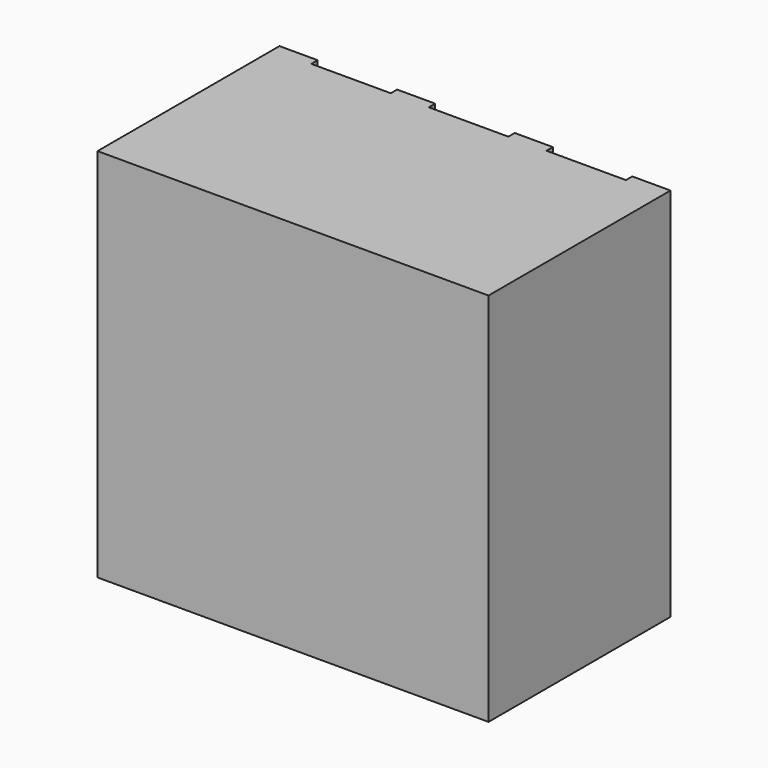
from build123d import *

# Parameters (mm, degrees)
F0_W     = 125
F0_H     = 120
F1_DEPTH = 60
F2_W     = 125
F2_H     = 20.32
F2_H_2   = 38.1
F3_DEPTH = 12.7
F4_W     = 115
F4_H     = 110
F5_DEPTH = 55
F6_W     = 25.4
F6_H     = 12.7
F7_DEPTH = 2.54
F8_W     = 5
F8_H     = 61.58
F9_DEPTH = 12.7


with BuildPart() as f1:
    # F0 (on Front) → F1 (new body)
    with BuildSketch(Plane.XZ):
        Rectangle(F0_W, F0_H)
    extrude(amount=F1_DEPTH)

    # F2 (on face) → F3 (join)
    with BuildSketch(Plane(origin=(0, 0, 0), x_dir=(-1, 0, 0), z_dir=(0, 1, 0))):
        with Locations((0, 49.84)):
            Rectangle(F2_W, F2_H)
        with Locations((0, -40.95)):
            Rectangle(F2_W, F2_H_2)
    extrude(amount=F3_DEPTH)

    # F4 (on face) → F5 (cut)
    with BuildSketch(Plane(origin=(0, 0, 0), x_dir=(-1, 0, 0), z_dir=(0, 1, 0))):
        Rectangle(F4_W, F4_H)
    extrude(amount=-F5_DEPTH, mode=Mode.SUBTRACT)

    # F6 (on face) → F7 (cut)
    with BuildSketch(Plane(origin=(0, 12.7, 0), x_dir=(-1, 0, 0), z_dir=(0, 1, 0))):
        with Locations((-37.592, 53.65)):
            Rectangle(F6_W, F6_H)
        Polygon((12.7, 60), (0, 60), (-12.7, 60), (-12.7, 47.3), (0, 47.3), (12.7, 47.3), align=None)
        with Locations((37.592, 53.65)):
            Rectangle(F6_W, F6_H)
    extrude(amount=-F7_DEPTH, mode=Mode.SUBTRACT)

    # F8 (on face) → F9 (join)
    with BuildSketch(Plane(origin=(0, 0, 0), x_dir=(-1, 0, 0), z_dir=(0, 1, 0))):
        with Locations((60, 8.89)):
            Rectangle(F8_W, F8_H)
        with Locations((-60, 8.89)):
            Rectangle(F8_W, F8_H)
    extrude(amount=F9_DEPTH)


solid = f1.part
